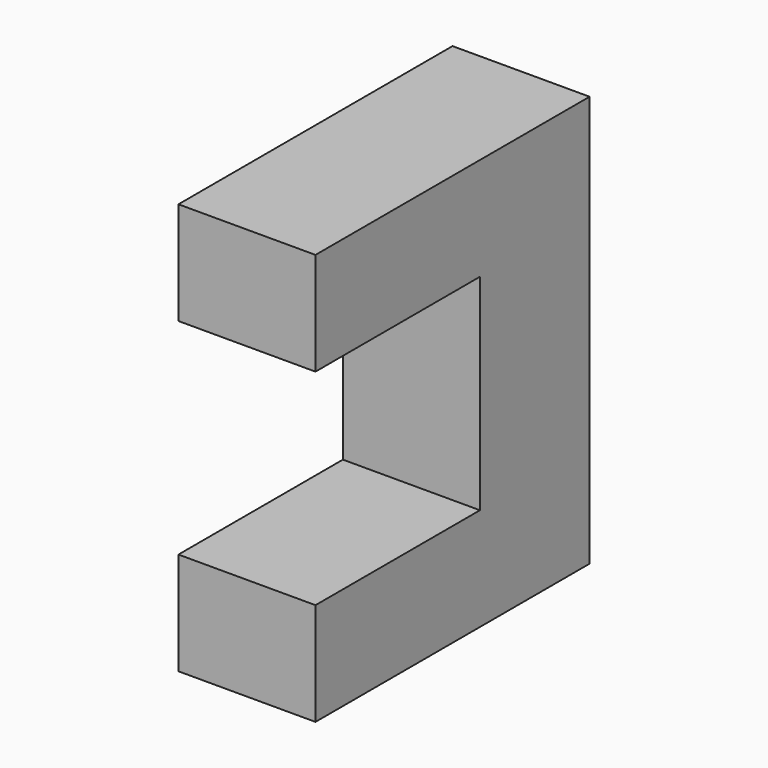
from build123d import *

# Parameters (mm, degrees)
F0_W     = 4
F0_H     = 4
F0_H_2   = 6
F1_DEPTH = 12
F2_DEPTH = 9
F3_DEPTH = 3


with BuildPart() as f1:
    # F0 (on Top) → F1 (new body)
    with BuildSketch(Plane.XY):
        with Locations((0, 3)):
            Rectangle(F0_W, F0_H)
        with Locations((0, -2)):
            Rectangle(F0_W, F0_H_2)
    extrude(amount=F1_DEPTH)

    # F0 (on Top) → F2 (cut)
    with BuildSketch(Plane.XY):
        with Locations((0, -2)):
            Rectangle(F0_W, F0_H_2)
    extrude(amount=F2_DEPTH, mode=Mode.SUBTRACT)

    # F0 (on Top) → F3 (join)
    with BuildSketch(Plane.XY):
        with Locations((0, -2)):
            Rectangle(F0_W, F0_H_2)
    extrude(amount=F3_DEPTH)


solid = f1.part
